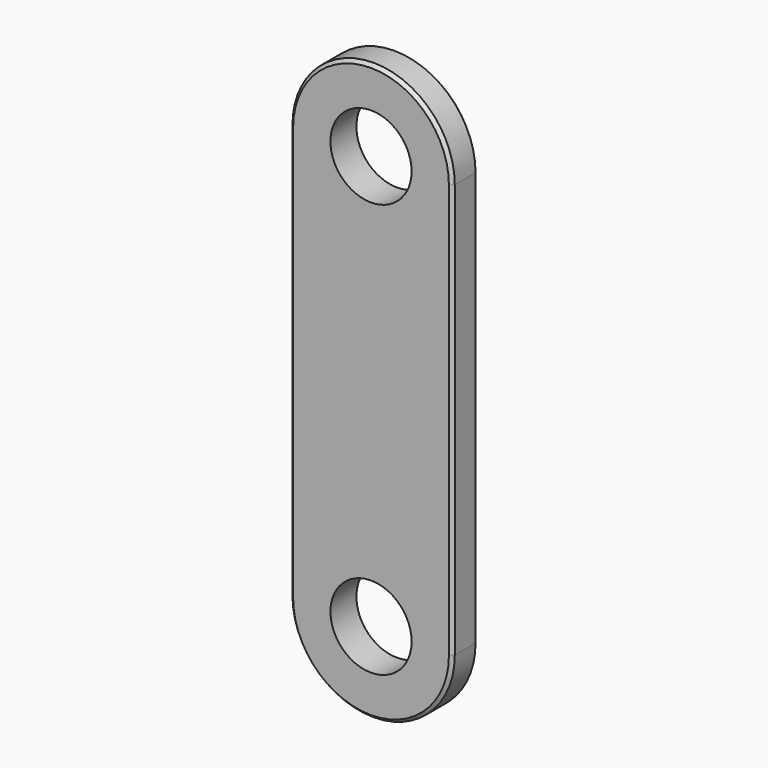
from build123d import *

# Parameters (mm, degrees)
F0_R     = 25
F1_DEPTH = 20
F2_SIZE2 = 2
F2_SIZE  = 2


with BuildPart() as f1:
    # F0 (on Front) → F1 (new body)
    with BuildSketch(Plane.XZ):
        with BuildLine():
            ThreePointArc((11.000967, 112.84133), (-38.999033, 162.84133), (-88.999033, 112.84133))
            Line((-88.999033, 112.84133), (-88.999033, -142.15867))
            ThreePointArc((-88.999033, -142.15867), (-38.999033, -192.15867), (11.000967, -142.15867))
            Line((11.000967, -142.15867), (11.000967, 112.84133))
        make_face()
        with Locations((-38.999033, -142.15867)):
            Circle(F0_R, mode=Mode.SUBTRACT)
        with Locations((-38.999033, 112.84133)):
            Circle(F0_R, mode=Mode.SUBTRACT)
    extrude(amount=-F1_DEPTH)

    # F2
    f2_edges = [f1.edges().sort_by_distance(p)[0] for p in [
        (11.000967, 0, -14.65867),
        (11.000967, 20, -14.65867),
        (-38.999033, 20, 162.84133),
        (-38.999033, 0, 162.84133),
        (-88.999033, 20, -14.65867),
        (-38.999033, 20, -192.15867),
        (-38.999033, 0, -192.15867),
        (-88.999033, 0, -14.65867),
    ]]
    chamfer(f2_edges, length=F2_SIZE, length2=F2_SIZE2)


solid = f1.part
